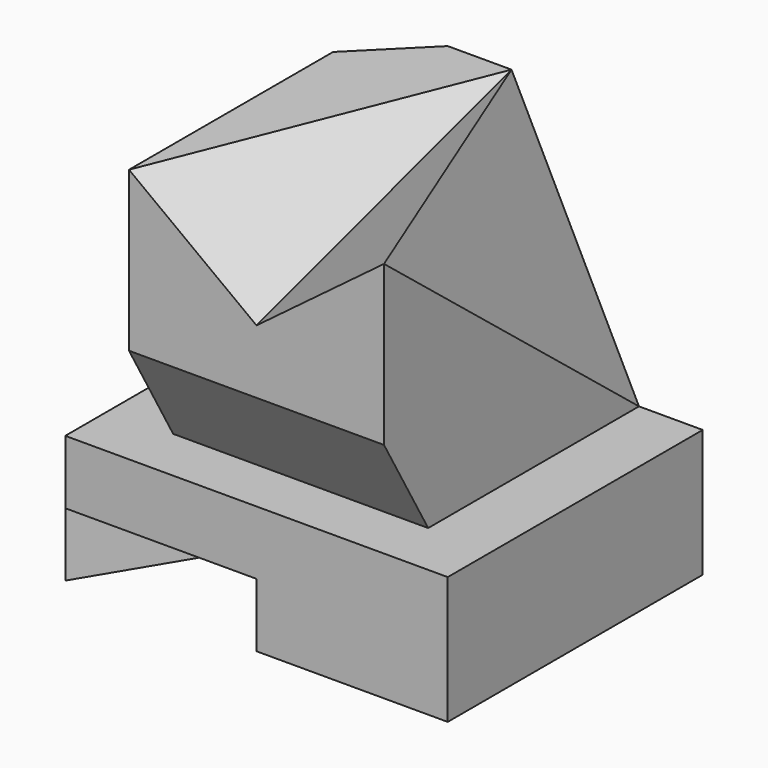
from build123d import *

# Parameters (mm, degrees)
F0_W     = 60
F0_H     = 50
F1_DEPTH = 60
F2_W     = 10
F2_H     = 40
F3_DEPTH = 50.001
F5_DEPTH = 50.001
F7_DEPTH = 10
F11_SIZE = 10


with BuildPart() as f1:
    # F0 (on Top) → F1 (new body)
    with BuildSketch(Plane.XY):
        with Locations((30, 25)):
            Rectangle(F0_W, F0_H)
    extrude(amount=F1_DEPTH)

    # F2 (on face) → F3 (cut, through all)
    with BuildSketch(Plane.XZ):
        with Locations((5, 40)):
            Rectangle(F2_W, F2_H)
        with Locations((55, 40)):
            Rectangle(F2_W, F2_H)
    extrude(amount=-F3_DEPTH, mode=Mode.SUBTRACT)

    # F4 (on face) → F5 (cut, through all)
    with BuildSketch(Plane.YZ.offset(50)):
        Polygon((8.6602540378, 20), (0, 35), (0, 20), align=None)
    extrude(amount=-F5_DEPTH, mode=Mode.SUBTRACT)

    # F6 (on face) → F7 (cut)
    with BuildSketch(Plane(origin=(0, 0, 0), x_dir=(1, 0, 0), z_dir=(0, 0, -1))):
        Polygon((30, 0), (0, 0), (30, -50), (60, -50), align=None)
    extrude(amount=-F7_DEPTH, mode=Mode.SUBTRACT)

    # F10: sweep along a path in F9
    with BuildLine(Plane.YZ.offset(50)) as f10_path:
        Line((0, 45), (50, 60))
    # F8 (on face) → F10 (sweep, cut)
    with BuildSketch(Plane.XZ):
        Polygon((50, 60), (10, 60), (30, 45), align=None)
    sweep(path=f10_path.line, mode=Mode.SUBTRACT)

    # F11
    f11_edges = [f1.edges().sort_by_distance(p)[0] for p in [
        (10, 50, 40),
    ]]
    chamfer(f11_edges, length=F11_SIZE)

    # F13: sweep along a path in F12
    with BuildLine(Plane.YZ.offset(50)) as f13_path:
        Line((0, 60), (50, 20))
    # F10_face (on face) → F13 (sweep, cut)
    with BuildSketch(Plane(origin=(43.3333333333, 33.3333333333, 60), x_dir=(1, 0, 0), z_dir=(0, 0, 1))):
        Polygon((6.6666666667, -33.3333333333), (6.6666666667, 16.6666666667), (-13.3333333333, 16.6666666667), align=None)
    sweep(path=f13_path.line, mode=Mode.SUBTRACT)


solid = f1.part
